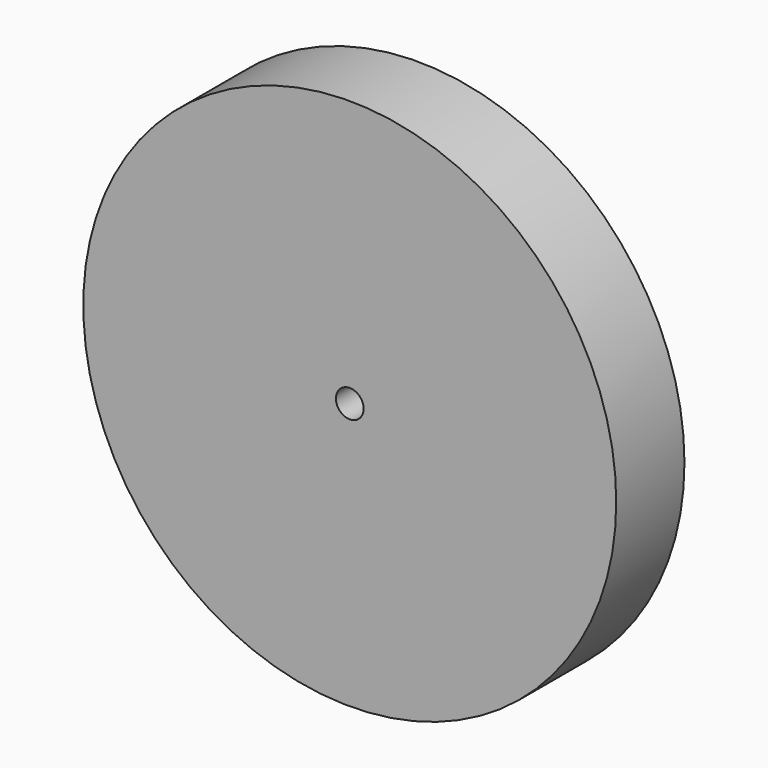
from build123d import *

# Parameters (mm, degrees)
F0_R     = 31.75
F0_R_2   = 1.651
F1_DEPTH = 10.16
F3_DEPTH = 5.08


with BuildPart() as f1:
    # F0 (on Front) → F1 (new body)
    with BuildSketch(Plane.XZ):
        Circle(F0_R)
        Circle(F0_R_2, mode=Mode.SUBTRACT)
    extrude(amount=F1_DEPTH)

    # F2 (on Front) → F3 (cut)
    with BuildSketch(Plane.XZ):
        with BuildLine():
            Line((2.848027, 10.872088), (2.848027, 18.6024))
            ThreePointArc((2.848027, 18.6024), (-15.157549, 11.15389), (-16.913336, -8.25225))
            Line((-16.913336, -8.25225), (-10.060686, -5.009604))
            ThreePointArc((-10.060686, -5.009604), (-8.72139, 7.088787), (2.848027, 10.872088))
        make_face()
        with BuildLine():
            Line((16.404016, 9.223276), (10.978537, 2.405259))
            ThreePointArc((10.978537, 2.405259), (8.756314, -7.045602), (0, -11.23893))
            Line((0, -11.23893), (5.136827, -18.104518))
            ThreePointArc((5.136827, -18.104518), (17.398392, -7.173319), (16.404016, 9.223276))
        make_face()
    extrude(amount=F3_DEPTH, mode=Mode.SUBTRACT)


solid = f1.part
